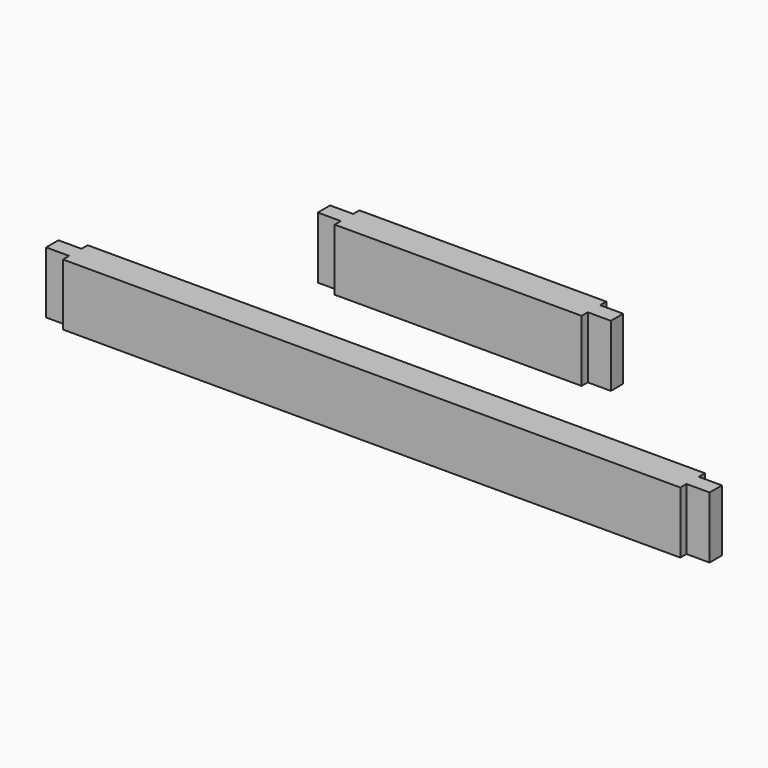
from build123d import *

# Parameters (mm, degrees)
F0_W     = 1016
F0_H     = 101.6
F0_W_2   = 406.4
F9_DEPTH = 50.8
F1_W     = 25.4
F1_H     = 101.6
F2_DEPTH = 38
F3_W     = 25.4
F3_H     = 101.6
F4_DEPTH = 38
F6_W     = 25.4
F6_H     = 101.6
F7_DEPTH = 38
F5_W     = 25.4
F5_H     = 101.6
F8_DEPTH = 38


with BuildPart() as f9:
    # F0 (on Front) → F9 (new body)
    with BuildSketch(Plane.XZ):
        with Locations((-142.337395, 50.8)):
            Rectangle(F0_W, F0_H)
        with Locations((0, 246.692121)):
            Rectangle(F0_W_2, F0_H)
    extrude(amount=F9_DEPTH)

    # F1 (on face) → F2 (join)
    with BuildSketch(Plane.YZ.offset(365.662605)):
        with Locations((-25.4, 50.8)):
            Rectangle(F1_W, F1_H)
    extrude(amount=F2_DEPTH)

    # F3 (on face) → F4 (join)
    with BuildSketch(Plane(origin=(-650.337395, 0, 0), x_dir=(0, -1, 0), z_dir=(-1, 0, 0))):
        with Locations((25.4, 50.8)):
            Rectangle(F3_W, F3_H)
    extrude(amount=F4_DEPTH)

    # F6 (on face) → F7 (join)
    with BuildSketch(Plane(origin=(-203.2, 0, 0), x_dir=(0, -1, 0), z_dir=(-1, 0, 0))):
        with Locations((25.4, 246.692121)):
            Rectangle(F6_W, F6_H)
    extrude(amount=F7_DEPTH)

    # F5 (on face) → F8 (join)
    with BuildSketch(Plane.YZ.offset(203.2)):
        with Locations((-25.4, 246.692121)):
            Rectangle(F5_W, F5_H)
    extrude(amount=F8_DEPTH)


solid = f9.part
